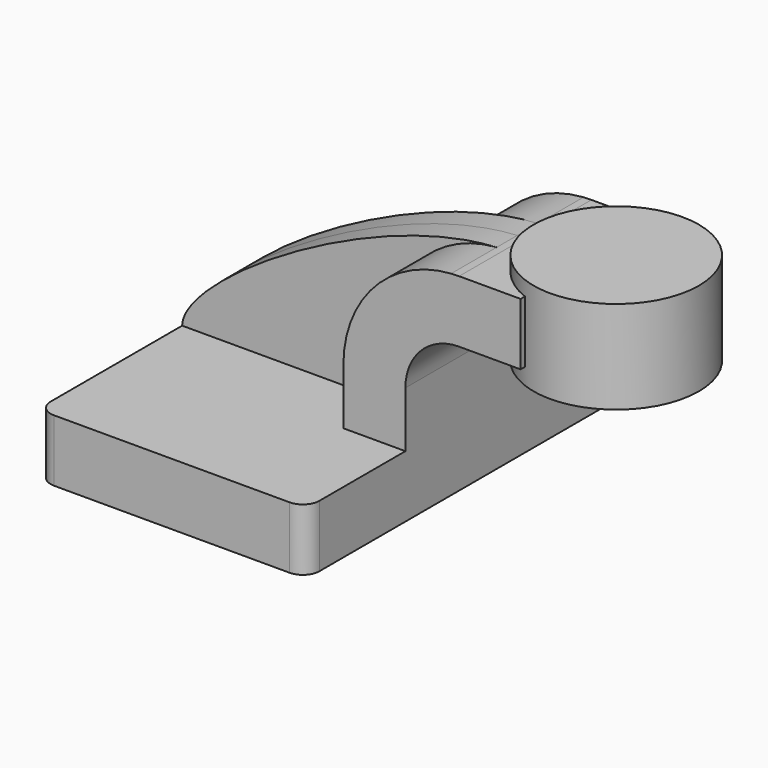
from build123d import *

# Parameters (mm, degrees)
F1_DEPTH = 63.5
F0_W     = 16.342798
F0_H     = 19.05
F2_DEPTH = 25.4
F3_DEPTH = 7.9375
F0_W_2   = 25.4
F0_H_2   = 28.575
F5_R     = 5.08


with BuildPart() as f1:
    # F0 (on Front) → F1 (new body, symmetric)
    with BuildSketch(Plane.XZ):
        Polygon((-41.275, -9.525), (41.275, -9.525), (41.275, 9.525), (22.225, 9.525), (-41.275, 9.525), align=None)
    extrude(amount=F1_DEPTH, both=True)

    # F0 (on Front) → F2 (join, symmetric)
    with BuildSketch(Plane.XZ):
        with BuildLine():
            Line((22.225, 9.525), (41.275, 9.525))
            Line((41.275, 9.525), (41.275, 26.651896))
            ThreePointArc((41.275, 26.651896), (46.110667, 38.326229), (57.785, 43.161896))
            Line((57.785, 43.161896), (60.325, 43.161896))
            Line((60.325, 43.161896), (60.325, 62.211896))
            Line((60.325, 62.211896), (57.785, 62.211896))
            add(Edge.make_bspline(
                [(55.339805, 62.127728), (56.163925, 62.171613), (56.97924, 62.199852), (57.785, 62.211896)],
                knots=[109.850246, 109.850246, 109.850246, 109.850246, 112.199789, 112.199789, 112.199789, 112.199789], degree=3))
            ThreePointArc((55.339805, 62.127728), (31.790147, 50.916711), (22.225, 26.651896))
            Line((22.225, 26.651896), (22.225, 9.525))
        make_face()
        with Locations((68.496399, 52.686896)):
            Rectangle(F0_W, F0_H)
    extrude(amount=F2_DEPTH, both=True)

    # F0 (on Front) → F3 (join, symmetric)
    with BuildSketch(Plane.XZ):
        with BuildLine():
            add(Edge.make_bspline(
                [(-41.275, 9.525), (-40.967457, 23.823205), (16.809013, 60.07592), (55.339805, 62.127728)],
                knots=[0, 0, 0, 0, 109.850246, 109.850246, 109.850246, 109.850246], degree=3))
            Line((-41.275, 9.525), (22.225, 9.525))
            Line((22.225, 9.525), (22.225, 26.651896))
            ThreePointArc((22.225, 26.651896), (31.790147, 50.916711), (55.339805, 62.127728))
        make_face()
    extrude(amount=F3_DEPTH, both=True)

    # F0 (on Front) → F4 (revolve)
    with BuildSketch(Plane.XZ):
        with Locations((98.425, 52.3875)):
            Rectangle(F0_W_2, F0_H_2)
    revolve(axis=Axis((85.725, 0, 52.187027), (0, 0, -1)))

    # F5
    f5_edges = [f1.edges().sort_by_distance(p)[0] for p in [
        (41.275, -63.5, 0),
        (41.275, 63.5, 0),
        (-41.275, -63.5, 0),
        (-41.275, 63.5, 0),
    ]]
    fillet(f5_edges, radius=F5_R)


solid = f1.part
